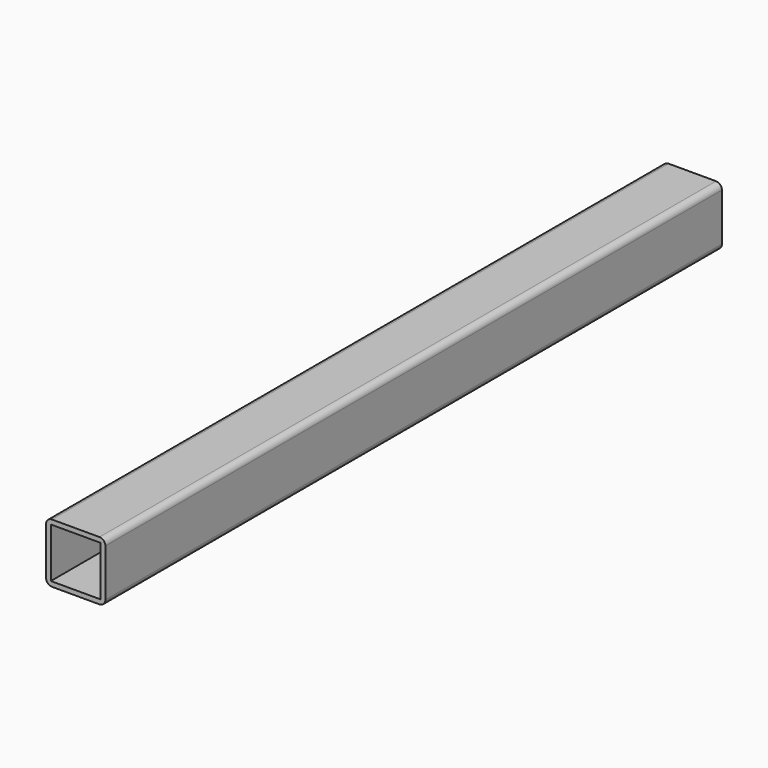
from build123d import *

# Parameters (mm, degrees)
F1_DEPTH = 650


with BuildPart() as f1:
    # F0 (on Front) → F1 (new body)
    with BuildSketch(Plane.XZ):
        with BuildLine():
            Line((0, 26.304911), (-20, 26.304911))
            ThreePointArc((-20, 26.304911), (-23.535534, 24.840445), (-25, 21.304911))
            Line((-25, 21.304911), (-25, -18.695089))
            ThreePointArc((-25, -18.695089), (-23.535534, -22.230623), (-20, -23.695089))
            Line((-20, -23.695089), (0, -23.695089))
            Line((0, -23.695089), (20, -23.695089))
            ThreePointArc((20, -23.695089), (23.535534, -22.230623), (25, -18.695089))
            Line((25, -18.695089), (25, 21.304911))
            ThreePointArc((25, 21.304911), (23.535534, 24.840445), (20, 26.304911))
            Line((20, 26.304911), (0, 26.304911))
        make_face()
        Polygon((-21, -19.695089), (-21, 22.304911), (2.5, 22.304911), (21, 22.304911), (21, -19.695089), (2.5, -19.695089), align=None, mode=Mode.SUBTRACT)
    extrude(amount=F1_DEPTH)


solid = f1.part
